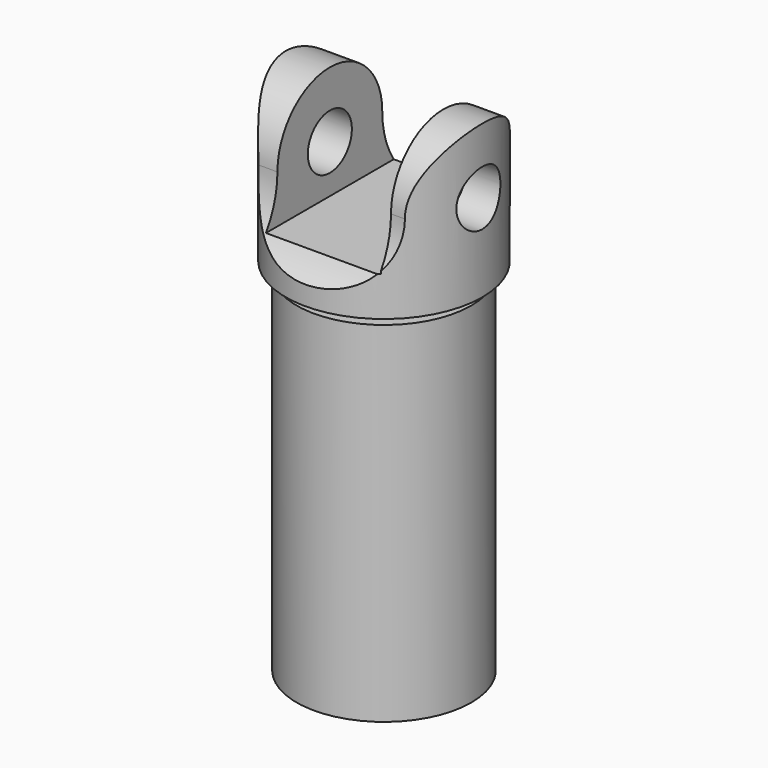
from build123d import *

# Parameters (mm, degrees)
F0_R           = 6.35
F1_DEPTH       = 25.4
F2_R           = 9.525
F2_R_2         = 6.35
F3_DEPTH       = 19.05
F2_R_3         = 11.1125
F4_DEPTH       = 1.5875
F5_R           = 12.7
F5_R_2         = 9.525
F6_DEPTH       = 50.8
F7_R           = 14.2875
F8_DEPTH       = 25.4
F9_R           = 4
F10_DEPTH      = 25.4
F10_DEPTH_BACK = 25.4
F11_W          = 16.51
F11_H          = 21.4139607947
F12_DEPTH      = 25.4
F12_DEPTH_BACK = 25.4


with BuildPart() as f1:
    # F0 (on Top) → F1 (new body)
    with BuildSketch(Plane.XY):
        Circle(F0_R)
    extrude(amount=F1_DEPTH)


with BuildPart() as f3:
    # F2 (on face) → F3 (new body)
    with BuildSketch(Plane.XY.offset(25.4)):
        Circle(F2_R)
        Circle(F2_R_2, mode=Mode.SUBTRACT)
    extrude(amount=-F3_DEPTH)

    # F2 (on face) → F4 (join)
    with BuildSketch(Plane.XY.offset(25.4)):
        Circle(F2_R_3)
        Circle(F2_R, mode=Mode.SUBTRACT)
    extrude(amount=-F4_DEPTH)


with BuildPart() as f6:
    # F5 (on face) → F6 (new body)
    with BuildSketch(Plane(origin=(0, 0, 23.8125), x_dir=(1, 0, 0), z_dir=(0, 0, -1))):
        Circle(F5_R)
        Circle(F5_R_2, mode=Mode.SUBTRACT)
    extrude(amount=F6_DEPTH)


with BuildPart() as f8:
    # F7 (on face) → F8 (new body)
    with BuildSketch(Plane.XY.offset(25.4)):
        Circle(F7_R)
    extrude(amount=F8_DEPTH)

    # F9 (on Right) → F10 (cut, two sides)
    with BuildSketch(Plane.YZ) as f10_sk:
        with Locations((0, 38.1)):
            Circle(F9_R)
        with BuildLine():
            ThreePointArc((-9.525, 38.1), (0, 47.625), (9.525, 38.1))
            ThreePointArc((9.525, 38.1), (22.225, 25.4), (34.925, 38.1))
            Line((34.925, 38.1), (34.925, 62.9070408605))
            Line((34.925, 62.9070408605), (-34.925, 62.9070408605))
            Line((-34.925, 62.9070408605), (-34.925, 38.1))
            ThreePointArc((-34.925, 38.1), (-22.225, 25.4), (-9.525, 38.1))
        make_face()
    extrude(amount=-F10_DEPTH, mode=Mode.SUBTRACT)
    extrude(f10_sk.sketch, amount=F10_DEPTH_BACK, mode=Mode.SUBTRACT)

    # F11 (on Front) → F12 (cut, two sides)
    with BuildSketch(Plane.XZ) as f12_sk:
        with Locations((0.383426901, 41.8379120529)):
            Rectangle(F11_W, F11_H)
    extrude(amount=-F12_DEPTH, mode=Mode.SUBTRACT)
    extrude(f12_sk.sketch, amount=F12_DEPTH_BACK, mode=Mode.SUBTRACT)


solid = Compound([f1.part, f3.part, f6.part, f8.part])
